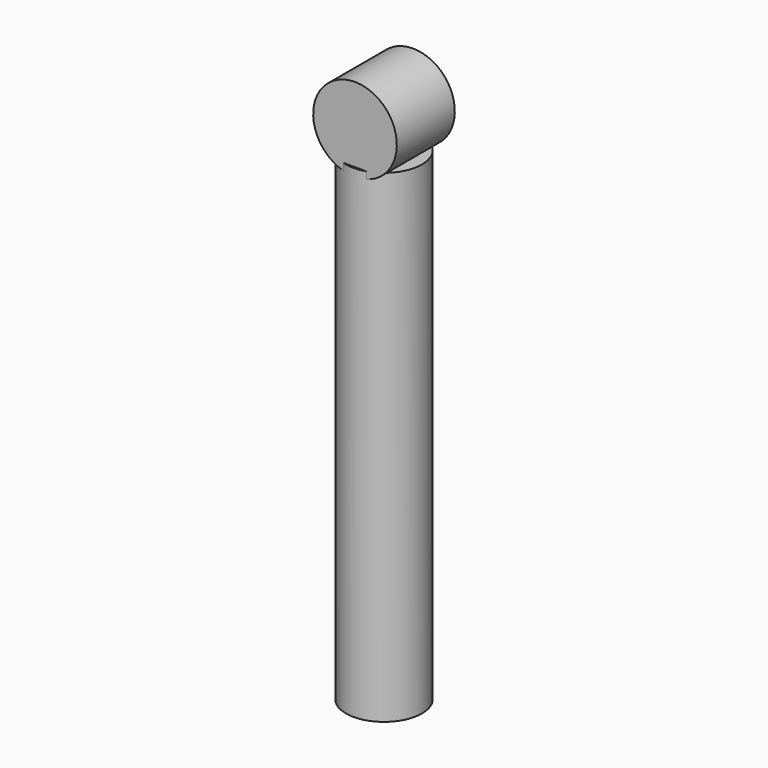
from build123d import *

# Parameters (mm, degrees)
F0_R     = 8
F1_DEPTH = 101.6
F2_R     = 8.789608
F3_DEPTH = 7.62


with BuildPart() as f1:
    # F0 (on Top) → F1 (new body)
    with BuildSketch(Plane.XY):
        Circle(F0_R)
    extrude(amount=F1_DEPTH)

    # F2 (on Front) → F3 (join, symmetric)
    with BuildSketch(Plane.XZ):
        with Locations((0, 108.582966)):
            Circle(F2_R)
    extrude(amount=F3_DEPTH, both=True)


solid = f1.part
